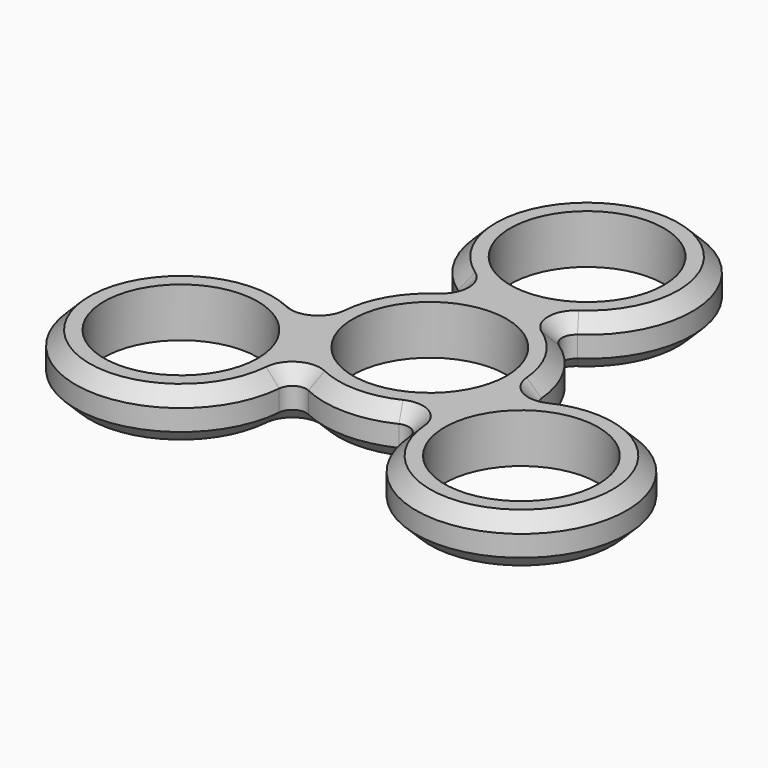
from build123d import *

# Parameters (mm, degrees)
F0_R     = 10.95
F1_DEPTH = 7
F2_R     = 2
F3_SIZE  = 2


with BuildPart() as f1:
    # F0 (on Top) → F1 (new body)
    with BuildSketch(Plane.XY):
        with BuildLine():
            ThreePointArc((14.816938, -2.33631), (12.990381, 7.5), (5.385165, 14))
            ThreePointArc((5.385165, 14), (0, 43), (-5.385165, 14))
            ThreePointArc((-5.385165, 14), (-12.990381, 7.5), (-14.816938, -2.33631))
            ThreePointArc((-14.816938, -2.33631), (-37.239092, -21.5), (-9.431773, -11.66369))
            ThreePointArc((-9.431773, -11.66369), (0, -15), (9.431773, -11.66369))
            ThreePointArc((9.431773, -11.66369), (37.239092, -21.5), (14.816938, -2.33631))
        make_face()
        with Locations((-24.248711, -14)):
            Circle(F0_R, mode=Mode.SUBTRACT)
        with Locations((24.248711, -14)):
            Circle(F0_R, mode=Mode.SUBTRACT)
        Circle(F0_R, mode=Mode.SUBTRACT)
        with Locations((0, 28)):
            Circle(F0_R, mode=Mode.SUBTRACT)
    extrude(amount=F1_DEPTH)

    # F2
    f2_edges = [f1.edges().sort_by_distance(p)[0] for p in [
        (-9.431773, -11.66369, 3.5),
        (9.431773, -11.66369, 3.5),
        (14.816938, -2.33631, 3.5),
        (5.385165, 14, 3.5),
        (-5.385165, 14, 3.5),
        (-14.816938, -2.33631, 3.5),
    ]]
    fillet(f2_edges, radius=F2_R)

    # F3
    f3_edges = [f1.edges().sort_by_distance(p)[0] for p in [
        (37.239092, -21.5, 0),
        (37.239092, -21.5, 7),
    ]]
    chamfer(f3_edges, length=F3_SIZE)


solid = f1.part
